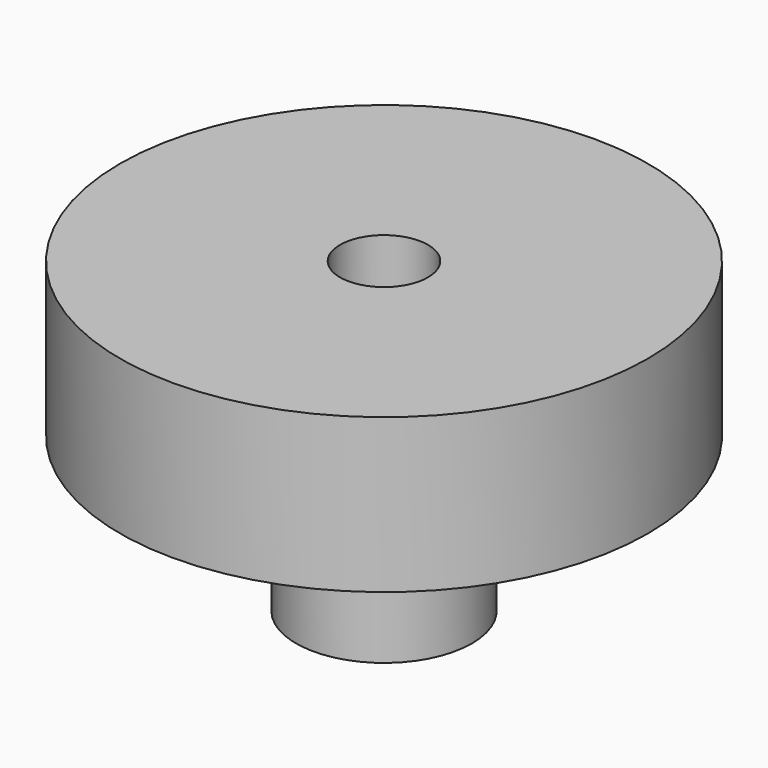
from build123d import *

# Parameters (mm, degrees)
F0_R     = 38.1
F1_DEPTH = 22.225
F2_R     = 6.35
F3_DEPTH = 35.49923
F4_R     = 12.7
F4_R_2   = 6.35
F5_DEPTH = 22.225


with BuildPart() as f1:
    # F0 (on Top) → F1 (new body)
    with BuildSketch(Plane.XY):
        Circle(F0_R)
    extrude(amount=F1_DEPTH)

    # F2 (on face) → F3 (cut)
    with BuildSketch(Plane.XY.offset(22.225)):
        Circle(F2_R)
    extrude(amount=-F3_DEPTH, mode=Mode.SUBTRACT)

    # F4 (on face) → F5 (join)
    with BuildSketch(Plane(origin=(0, 0, 0), x_dir=(1, 0, 0), z_dir=(0, 0, -1))):
        Circle(F4_R)
        Circle(F4_R_2, mode=Mode.SUBTRACT)
    extrude(amount=F5_DEPTH)


solid = f1.part
